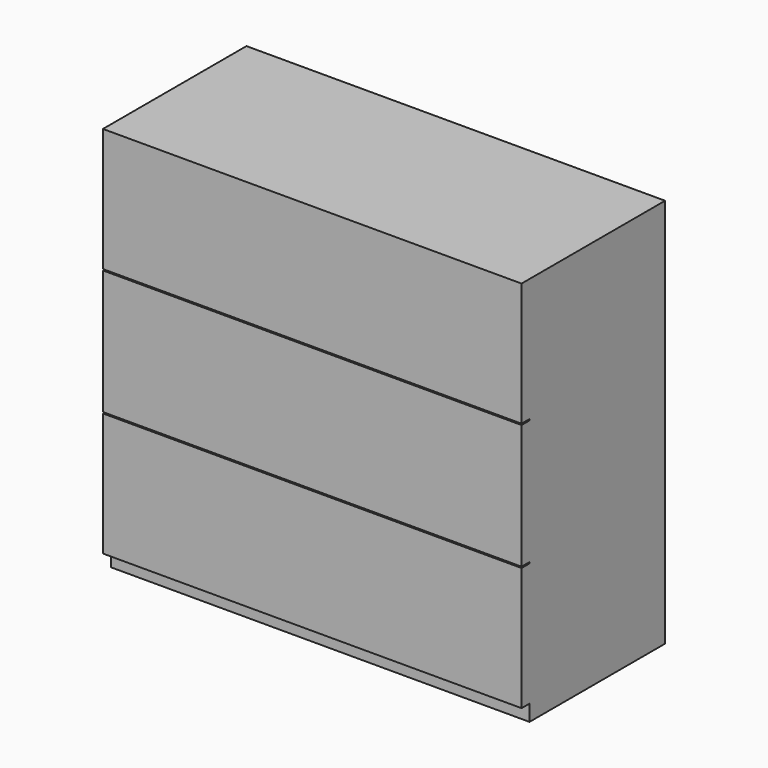
from build123d import *

# Parameters (mm, degrees)
F0_W     = 1066.8
F0_H     = 993.775
F1_DEPTH = 457.2
F2_W     = 1066.8
F2_H     = 3.175
F2_H_2   = 41.148
F3_DEPTH = 25.4


with BuildPart() as f1:
    # F0 (on Front) → F1 (new body)
    with BuildSketch(Plane.XZ):
        Rectangle(F0_W, F0_H)
    extrude(amount=F1_DEPTH)

    # F2 (on face) → F3 (cut)
    with BuildSketch(Plane.XZ.offset(457.2)):
        with Locations((0, 180.975)):
            Rectangle(F2_W, F2_H)
        with Locations((0, -139.827)):
            Rectangle(F2_W, F2_H)
        with Locations((0, -476.3135)):
            Rectangle(F2_W, F2_H_2)
    extrude(amount=-F3_DEPTH, mode=Mode.SUBTRACT)


solid = f1.part
